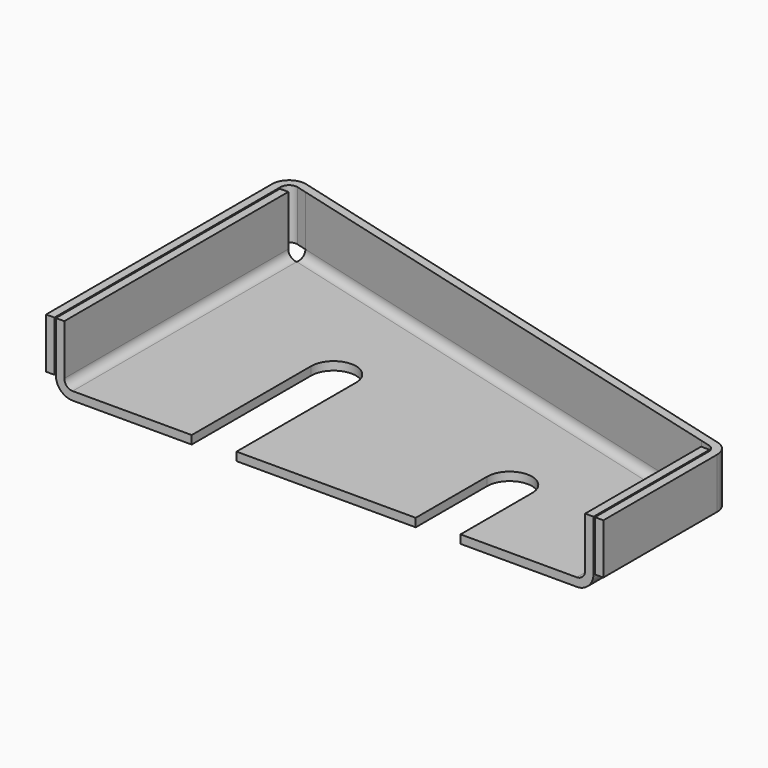
from build123d import *

# Parameters (mm, degrees)
PAD_DEPTH            = 24
THICKNESS_T          = -3
FILLET_R             = 3
FILLET001_R          = 6
POCKET_DEPTH         = 24.001
SKETCH003_W          = 3
SKETCH003_H          = 18
SKETCH005_W          = 3
SKETCH005_H          = 18
POCKET001_DEPTH      = 0.001
POCKET001_DEPTH_BACK = 24.001


with BuildPart() as part:
    # Sketch (on XY_Plane of Origin) → Pad (new body)
    with BuildSketch(Plane.XY):
        Polygon((-6, 0), (186, 0), (186, 56.373107), (-6, 107.819352), align=None)
    extrude(amount=PAD_DEPTH)

    # Thickness
    thickness_openings = [part.faces().sort_by_distance(p)[0] for p in [
        (79.973475, 42.391415, 24),
        (90, 0, 12),
    ]]
    offset(amount=THICKNESS_T, openings=thickness_openings, kind=Kind.INTERSECTION)

    # Fillet
    fillet_edges = [part.edges().sort_by_distance(p)[0] for p in [
        (-3, 51.954838, 3),
        (183, 27.035563, 3),
        (90, 78.990401, 3),
    ]]
    fillet(fillet_edges, radius=FILLET_R)

    # Fillet001
    fillet001_edges = [part.edges().sort_by_distance(p)[0] for p in [
        (90, 82.09623, 0),
        (-6, 53.909676, 0),
        (186, 28.186554, 0),
    ]]
    fillet(fillet001_edges, radius=FILLET001_R)

    # Sketch001 (on Face5 of Fillet001) → Pocket (cut, through all)
    with BuildSketch(Plane(origin=(0, 0, 0), x_dir=(1, 0, 0), z_dir=(0, 0, -1))):
        Polygon((186, -51.769145), (186, -56.373107), (181.552914, -57.5647), (180, -51.769145), align=None)
        Polygon((0, -100), (1.552914, -105.795555), (-6, -107.819352), (-6, -100), align=None)
    extrude(amount=-POCKET_DEPTH, mode=Mode.SUBTRACT)

    # AdditivePipe: sweep along a path in Sketch002
    with BuildLine(Plane.XY.offset(24)) as additivepipe_path:
        Line((0.776457, 102.897777), (-2.723543, 103.8356))
        ThreePointArc((-2.723543, 103.8356), (-5.326284, 103.317882), (-6.5, 100.937822))
        Line((-6.5, 100.937822), (-6.5, 0))
    # Sketch003 (on Face18 of Pocket) → AdditivePipe (sweep)
    with BuildSketch(Plane(origin=(-25, 6.69873, 0), x_dir=(-0.258819, -0.965926, 0), z_dir=(-0.965926, 0.258819, 0))):
        with Locations((-101.092583, 15)):
            Rectangle(SKETCH003_W, SKETCH003_H)
    sweep(path=additivepipe_path.line)

    # AdditivePipe001: sweep along a path in Sketch006
    with BuildLine(Plane.XY.offset(24)) as additivepipe001_path:
        Line((186.5, 0), (186.5, 50.831323))
        ThreePointArc((186.5, 50.831323), (185.88006, 52.657607), (184.276457, 53.729101))
        Line((184.276457, 53.729101), (180.776457, 54.666923))
    # Sketch005 (on Face2 of AdditivePipe) → AdditivePipe001 (sweep)
    with BuildSketch(Plane(origin=(155, -41.532125, 0), x_dir=(0.258819, 0.965926, 0), z_dir=(0.965926, -0.258819, 0))):
        with Locations((101.092583, 15)):
            Rectangle(SKETCH005_W, SKETCH005_H)
    sweep(path=additivepipe001_path.line)

    # Sketch004 (on XY_Plane of Origin) → Pocket001 (cut, two sides)
    with BuildSketch(Plane.XY) as pocket001_sk:
        with BuildLine():
            ThreePointArc((42.5, 0), (50.5, -8), (58.5, 0))
            Line((58.5, 0), (58.5, 53.339728))
            ThreePointArc((58.5, 53.339728), (50.5, 61.339728), (42.5, 53.339728))
            Line((42.5, 0), (42.5, 53.339728))
        make_face()
        with BuildLine():
            ThreePointArc((138.5, 31.903793), (130.5, 39.903793), (122.5, 31.903793))
            Line((122.5, 31.903793), (122.5, 0))
            ThreePointArc((122.5, 0), (130.5, -8), (138.5, 0))
            Line((138.5, 31.903793), (138.5, 0))
        make_face()
    extrude(amount=-POCKET001_DEPTH, mode=Mode.SUBTRACT)
    extrude(pocket001_sk.sketch, amount=POCKET001_DEPTH_BACK, mode=Mode.SUBTRACT)


solid = part.part
